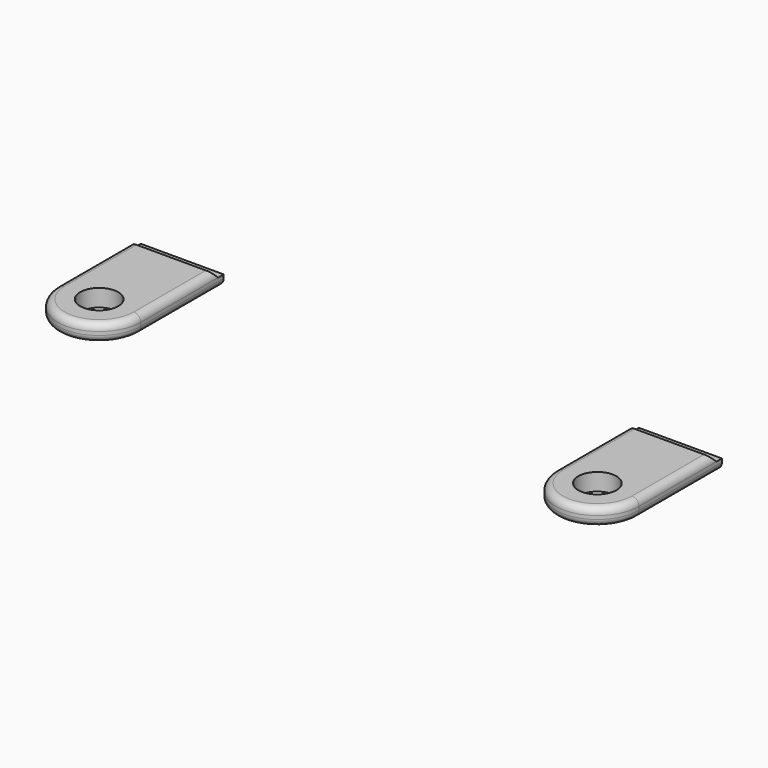
from build123d import *

# Parameters (mm, degrees)
F1_DEPTH = 2.5
F2_D     = 5.5
F2_2_D   = 5.5
F3_R     = 1
F3_2_R   = 1
F5_DEPTH = 84.0010001


with BuildPart() as f1:
    # F0 (on Top) → F1 (new body)
    with BuildSketch(Plane.XY):
        with BuildLine():
            ThreePointArc((-84, -15), (-78, -21), (-72, -15))
            ThreePointArc((-72, -15), (-78, -9), (-84, -15))
        make_face()
        with BuildLine():
            Line((-72, -15), (-72, 0))
            Line((-72, 0), (-84, 0))
            Line((-84, 0), (-84, -15))
            ThreePointArc((-84, -15), (-78, -9), (-72, -15))
        make_face()
    extrude(amount=F1_DEPTH)

    # F2 (through all)
    with Locations(Plane(origin=(0, 0, 0), x_dir=(1, 0, 0), z_dir=(0, 0, -1))):
        with Locations((-78, 15), (-6, 15)):
            Hole(F2_D / 2)

    # F3
    f3_edges = [f1.edges().sort_by_distance(p)[0] for p in [
        (-84, -7.5, 2.5),
        (-84, -7.5, 0),
    ]]
    fillet(f3_edges, radius=F3_R)


with BuildPart() as f1b:
    # F0 (on Top) → F1, piece 2 (new body)
    with BuildSketch(Plane.XY):
        with BuildLine():
            Line((0, -15), (0, 0))
            Line((0, 0), (-12, 0))
            Line((-12, 0), (-12, -15))
            ThreePointArc((-12, -15), (-6, -9), (0, -15))
        make_face()
        with BuildLine():
            ThreePointArc((-12, -15), (-6, -21), (0, -15))
            ThreePointArc((0, -15), (-6, -9), (-12, -15))
        make_face()
    extrude(amount=F1_DEPTH)

    # F2#2 (through all)
    with Locations(Plane(origin=(0, 0, 0), x_dir=(1, 0, 0), z_dir=(0, 0, -1))):
        with Locations((-78, 15), (-6, 15)):
            Hole(F2_2_D / 2)

    # F3#2
    f3_2_edges = [f1b.edges().sort_by_distance(p)[0] for p in [
        (-12, -7.5, 2.5),
        (-12, -7.5, 0),
    ]]
    fillet(f3_2_edges, radius=F3_2_R)


with BuildPart() as f5_tool:
    # F4 (on face) → F5 (new body, through all)
    with BuildSketch(Plane(origin=(-84, 0, 0), x_dir=(0, -1, 0), z_dir=(-1, 0, 0))):
        Polygon((0, 2.5), (0, 1.5), (1, 1.5), (2, 2.5), align=None)
    extrude(amount=-F5_DEPTH)


with BuildPart() as f1_1:
    add(f1.part)

    # F5: cut by f5_tool
    add(f5_tool.part, mode=Mode.SUBTRACT)


with BuildPart() as f1b_1:
    add(f1b.part)

    # F5: cut by f5_tool
    add(f5_tool.part, mode=Mode.SUBTRACT)


solid = Compound([f1_1.part, f1b_1.part])
